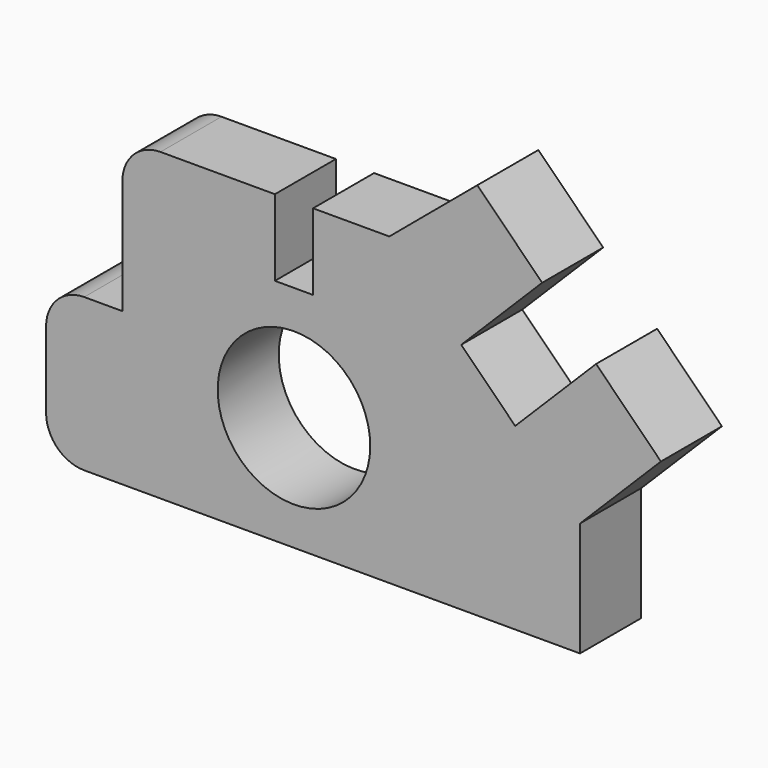
from build123d import *

# Parameters (mm, degrees)
F0_R     = 254
F1_DEPTH = 254


with BuildPart() as f1:
    # F0 (on Front) → F1 (new body)
    with BuildSketch(Plane.XZ):
        with BuildLine():
            ThreePointArc((0, 127), (37.197439, 37.197439), (127, 0))
            Line((127, 0), (1778, 0))
            Line((1778, 0), (1778, 381))
            Line((1778, 381), (2047.407684, 650.407684))
            Line((2047.407684, 650.407684), (1831.589435, 866.225932))
            Line((1831.589435, 866.225932), (1562.181751, 596.818249))
            Line((1562.181751, 596.818249), (1382.576629, 776.423371))
            Line((1382.576629, 776.423371), (1651.984312, 1045.831055))
            Line((1651.984312, 1045.831055), (1436.166064, 1261.649304))
            Line((1436.166064, 1261.649304), (1143, 1016))
            Line((1143, 1016), (889, 1016))
            Line((889, 1016), (889, 762))
            Line((889, 762), (762, 762))
            Line((762, 762), (762, 1016))
            Line((762, 1016), (381, 1016))
            ThreePointArc((381, 1016), (291.197439, 978.802561), (254, 889))
            Line((254, 889), (254, 508))
            Line((254, 508), (127, 508))
            ThreePointArc((127, 508), (37.197439, 470.802561), (0, 381))
            Line((0, 381), (0, 127))
        make_face()
        with Locations((825.5, 381)):
            Circle(F0_R, mode=Mode.SUBTRACT)
    extrude(amount=F1_DEPTH)


solid = f1.part
